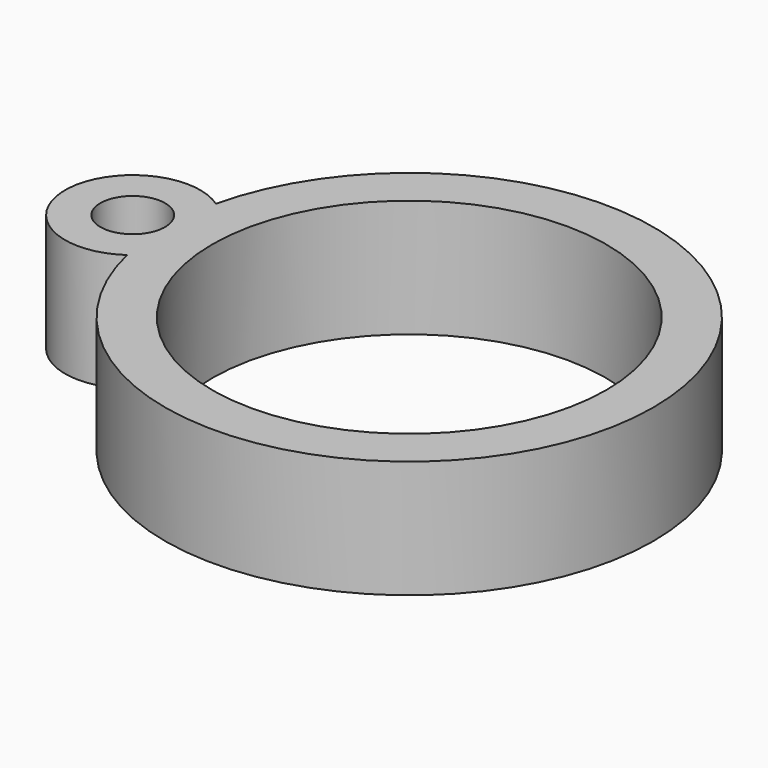
from build123d import *

# Parameters (mm, degrees)
F0_R     = 16.75
F1_DEPTH = 10


with BuildPart() as f1:
    # F0 (on Top) → F1 (new body)
    with BuildSketch(Plane.XY):
        with BuildLine():
            ThreePointArc((-20.206893, -4.716353), (20.75, 0), (-20.206893, 4.716353))
            ThreePointArc((-20.206893, 4.716353), (-29.246043, 0), (-20.206893, -4.716353))
        make_face()
        with BuildLine():
            ThreePointArc((-20.749537, -0.138584), (-26.246043, 0), (-20.749537, 0.138584))
            ThreePointArc((-20.749537, 0.138584), (-20.746917, 0.069314), (-20.746043, 0))
            ThreePointArc((-20.746043, 0), (-20.746917, -0.069314), (-20.749537, -0.138584))
        make_face(mode=Mode.SUBTRACT)
        Circle(F0_R, mode=Mode.SUBTRACT)
    extrude(amount=F1_DEPTH)


solid = f1.part
